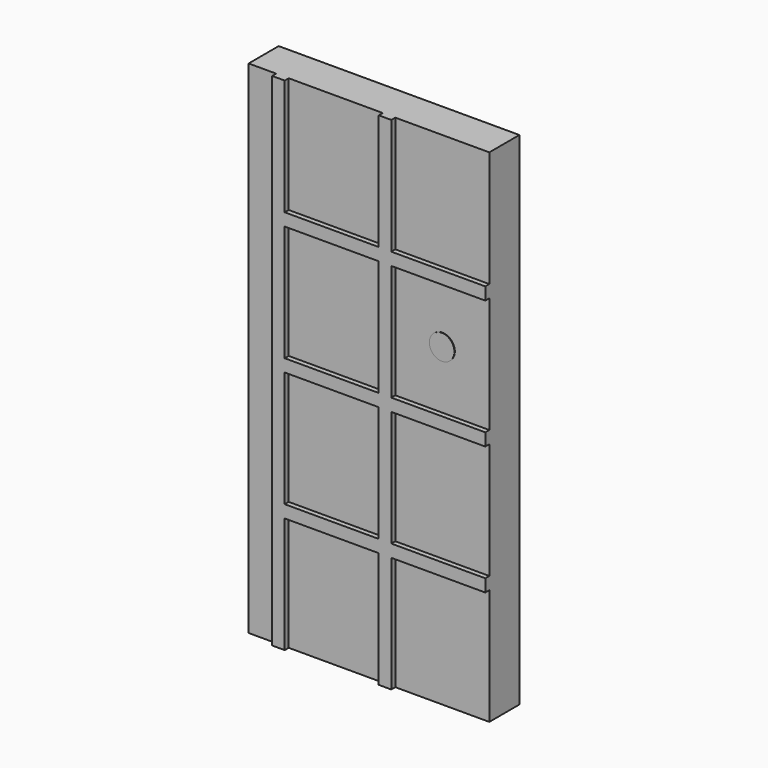
from build123d import *

# Parameters (mm, degrees)
F0_W      = 101.6
F0_H      = 19.05
F1_DEPTH  = 254
F2_W      = 6.35
F2_H      = 254
F3_DEPTH  = 2.54
F4_W      = 101.6
F4_H      = 6.35
F5_DEPTH  = 2.54
F6_W      = 101.6
F6_H      = 6.35
F7_DEPTH  = 2.54
F8_W      = 101.6
F8_H      = 6.35
F9_DEPTH  = 2.54
F10_R     = 6.35
F11_DEPTH = 0.254
F12_W     = 19.05
F12_H     = 254
F13_DEPTH = 20.32
F15_DEPTH = 2.54


with BuildPart() as f1:
    # F0 (on Top) → F1 (new body)
    with BuildSketch(Plane.XY):
        Rectangle(F0_W, F0_H)
    extrude(amount=F1_DEPTH)

    # F2 (on face) → F3 (join)
    with BuildSketch(Plane.XZ.offset(9.525)):
        with Locations((0, 127)):
            Rectangle(F2_W, F2_H)
    extrude(amount=F3_DEPTH)

    # F4 (on face) → F5 (join)
    with BuildSketch(Plane.XZ.offset(9.525)):
        with Locations((0, 127)):
            Rectangle(F4_W, F4_H)
        with Locations((0, 127)):
            Rectangle(F4_W, F4_H)
    extrude(amount=F5_DEPTH)

    # F6 (on face) → F7 (join)
    with BuildSketch(Plane.XZ.offset(9.525)):
        with Locations((0, 192.0875)):
            Rectangle(F6_W, F6_H)
    extrude(amount=F7_DEPTH)

    # F8 (on face) → F9 (join)
    with BuildSketch(Plane.XZ.offset(9.525)):
        with Locations((0, 61.9125)):
            Rectangle(F8_W, F8_H)
    extrude(amount=F9_DEPTH)

    # F10 (on face) → F11 (join)
    with BuildSketch(Plane.XZ.offset(9.525)):
        with Locations((26.9875, 159.54375)):
            Circle(F10_R)
    extrude(amount=F11_DEPTH)

    # F12 (on face) → F13 (join)
    with BuildSketch(Plane(origin=(-50.8, 0, 0), x_dir=(0, -1, 0), z_dir=(-1, 0, 0))):
        with Locations((0, 127)):
            Rectangle(F12_W, F12_H)
    extrude(amount=F13_DEPTH)

    # F14 (on face) → F15 (join)
    with BuildSketch(Plane.XZ.offset(9.525)):
        Polygon((-50.8, 123.825), (-50.8, 127), (-50.8, 128.689587), (-50.8, 254), (-57.15, 254), (-57.15, 0), (-50.8, 0), align=None)
    extrude(amount=F15_DEPTH)


solid = f1.part
